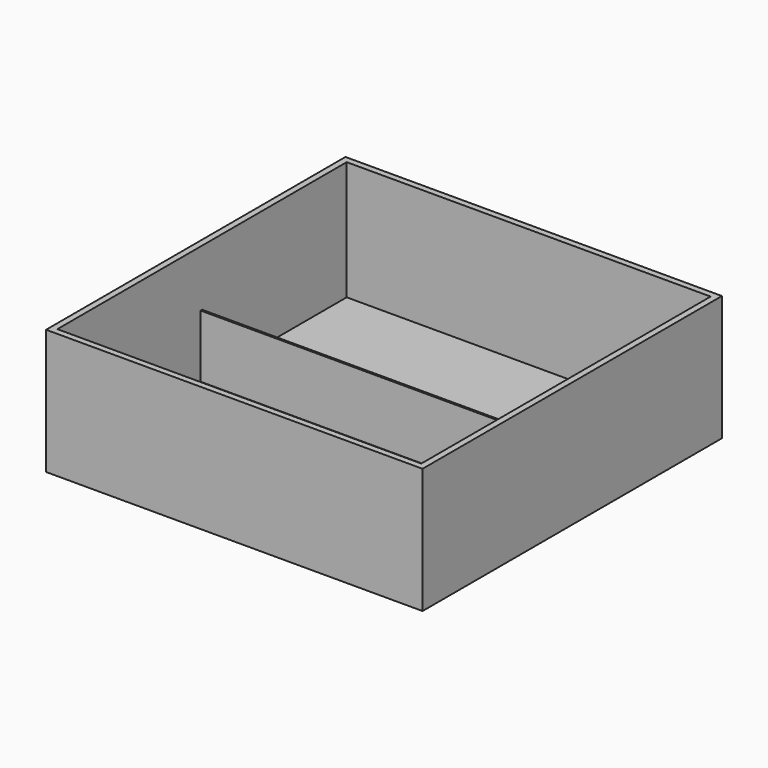
from build123d import *

# Parameters (mm, degrees)
F0_W     = 152.678899467
F0_H     = 151.7591327429
F1_DEPTH = 25.4
F2_DEPTH = 25.4
F3_T     = -2.54
F4_W     = 143.7006218052
F4_H     = 0.7638186216
F5_DEPTH = 25.4


with BuildPart() as f1:
    # F0 (on Top) → F1 (new body)
    with BuildSketch(Plane.XY):
        with Locations((-0.2116523683, 0.7638186216)):
            Rectangle(F0_W, F0_H)
    extrude(amount=F1_DEPTH)

    # F2 (add): a face of the model
    f2_faces = [f1.faces().sort_by_distance(p)[0] for p in [
        (-0.2116523683, 0.7638186216, 25.4),
    ]]
    extrude(f2_faces, amount=F2_DEPTH)

    # F3
    f3_openings = [f1.faces().sort_by_distance(p)[0] for p in [
        (-0.211652, 0.763819, 50.8),
    ]]
    offset(amount=F3_T, openings=f3_openings)

    # F4 (on face) → F5 (join)
    with BuildSketch(Plane.XY.offset(2.54)):
        with Locations((-2.1607911992, 0.3819093108)):
            Rectangle(F4_W, F4_H)
    extrude(amount=F5_DEPTH)


solid = f1.part
